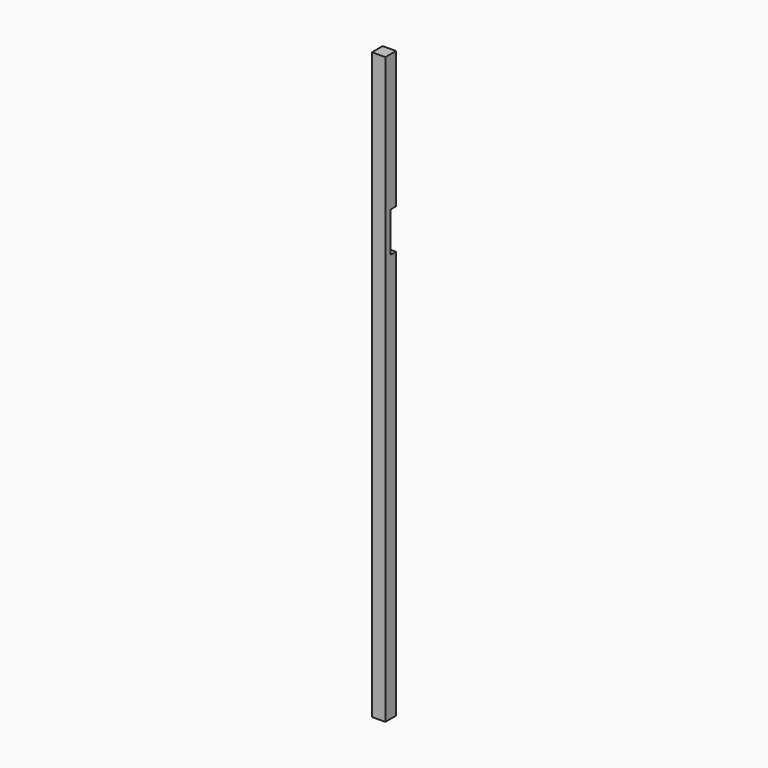
from build123d import *

# Parameters (mm, degrees)
F0_W     = 88.9
F0_H     = 3911.6
F1_DEPTH = 88.9
F2_W     = 44.45
F2_H     = 266.7
F3_DEPTH = 88.901


with BuildPart() as f1:
    # F0 (on Front) → F1 (new body)
    with BuildSketch(Plane.XZ):
        Rectangle(F0_W, F0_H)
    extrude(amount=F1_DEPTH)

    # F2 (on face) → F3 (cut, through all)
    with BuildSketch(Plane(origin=(-44.45, 0, 0), x_dir=(0, -1, 0), z_dir=(-1, 0, 0))):
        with Locations((22.225, 908.05)):
            Rectangle(F2_W, F2_H)
    extrude(amount=-F3_DEPTH, mode=Mode.SUBTRACT)


solid = f1.part
